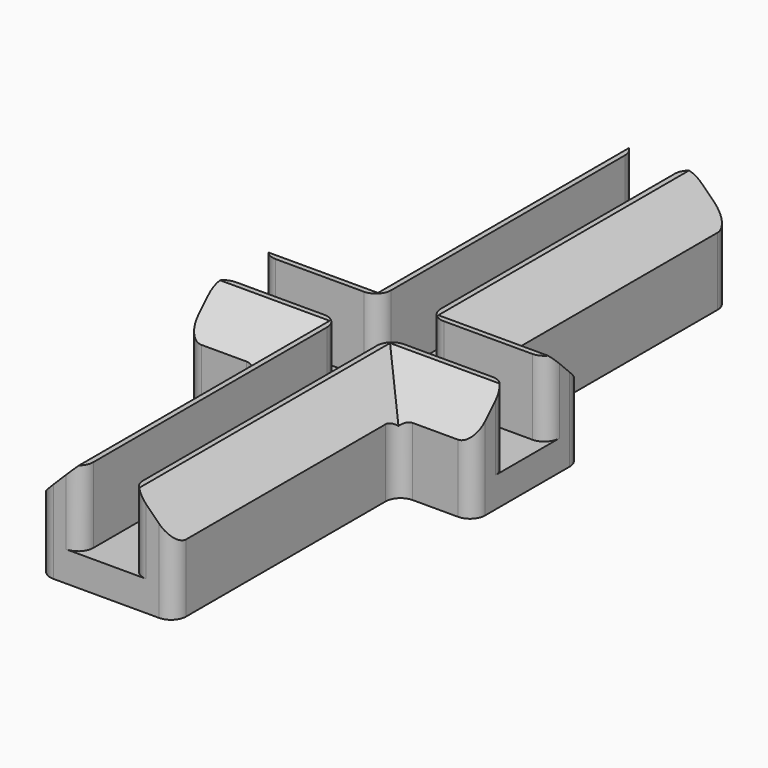
from build123d import *

# Parameters (mm, degrees)
SKETCH_R        = 1.2
PAD_DEPTH       = 7
SKETCH001_W     = 3.3
SKETCH001_H     = 5
POCKET_DEPTH    = 50
SKETCH002_W     = 3.3
SKETCH002_H     = 5
POCKET001_DEPTH = 30
CHAMFER_SIZE    = 2.5
FILLET_R        = 1
FILLET001_R     = 1


with BuildPart() as part:
    # Sketch → Pad (new body)
    with BuildSketch(Plane.XY):
        Polygon((-4.5, 23), (4.5, 23), (4.5, 4.5), (9.5, 4.5), (9.5, -4.5), (4.5, -4.5), (4.5, -23), (-4.5, -23), (-4.5, -4.5), (-9.5, -4.5), (-9.5, 4.5), (-4.5, 4.5), align=None)
        with Locations((0, 15.5)):
            Circle(SKETCH_R, mode=Mode.SUBTRACT)
        with Locations((0, -15.5)):
            Circle(SKETCH_R, mode=Mode.SUBTRACT)
    extrude(amount=PAD_DEPTH)

    # Sketch001 → Pocket (cut)
    with BuildSketch(Plane(origin=(0, 23, 0), x_dir=(-1, 0, 0), z_dir=(0, 1, 0))):
        with Locations((0, 4.5)):
            Rectangle(SKETCH001_W, SKETCH001_H)
    extrude(amount=-POCKET_DEPTH, mode=Mode.SUBTRACT)

    # Sketch002 → Pocket001 (cut)
    with BuildSketch(Plane(origin=(-9.5, 0, 0), x_dir=(0, -1, 0), z_dir=(-1, 0, 0))):
        with Locations((0, 4.5)):
            Rectangle(SKETCH002_W, SKETCH002_H)
    extrude(amount=-POCKET001_DEPTH, mode=Mode.SUBTRACT)

    # Chamfer
    chamfer_edges = [part.edges().sort_by_distance(p)[0] for p in [
        (-4.5, 13.75, 7),
        (-7, 4.5, 7),
        (4.5, 13.75, 7),
        (7, 4.5, 7),
        (7, -4.5, 7),
        (4.5, -13.75, 7),
        (-4.5, -13.75, 7),
        (-7, -4.5, 7),
    ]]
    chamfer(chamfer_edges, length=CHAMFER_SIZE)

    # Fillet
    fillet_edges = [part.edges().sort_by_distance(p)[0] for p in [
        (-9.5, 1.65, 4.5),
        (-9.5, -1.65, 4.5),
        (-1.65, 23, 4.5),
        (1.65, 23, 4.5),
        (9.5, 1.65, 4.5),
        (9.5, -1.65, 4.5),
        (-1.65, -23, 4.5),
        (1.65, -23, 4.5),
        (1.65, 1.65, 4.5),
        (-1.65, 1.65, 4.5),
        (1.65, -1.65, 4.5),
        (-1.65, -1.65, 4.5),
    ]]
    fillet(fillet_edges, radius=FILLET_R)

    # Fillet001
    fillet001_edges = [part.edges().sort_by_distance(p)[0] for p in [
        (-9.5, -4.5, 2.25),
        (-9.5, 4.5, 2.25),
        (-4.5, 4.5, 2.25),
        (-4.5, 23, 2.25),
        (4.5, 23, 2.25),
        (4.5, 4.5, 2.25),
        (9.5, 4.5, 2.25),
        (9.5, -4.5, 2.25),
        (4.5, -4.5, 2.25),
        (4.5, -23, 2.25),
        (-4.5, -23, 2.25),
        (-4.5, -4.5, 2.25),
    ]]
    fillet(fillet001_edges, radius=FILLET001_R)


solid = part.part
